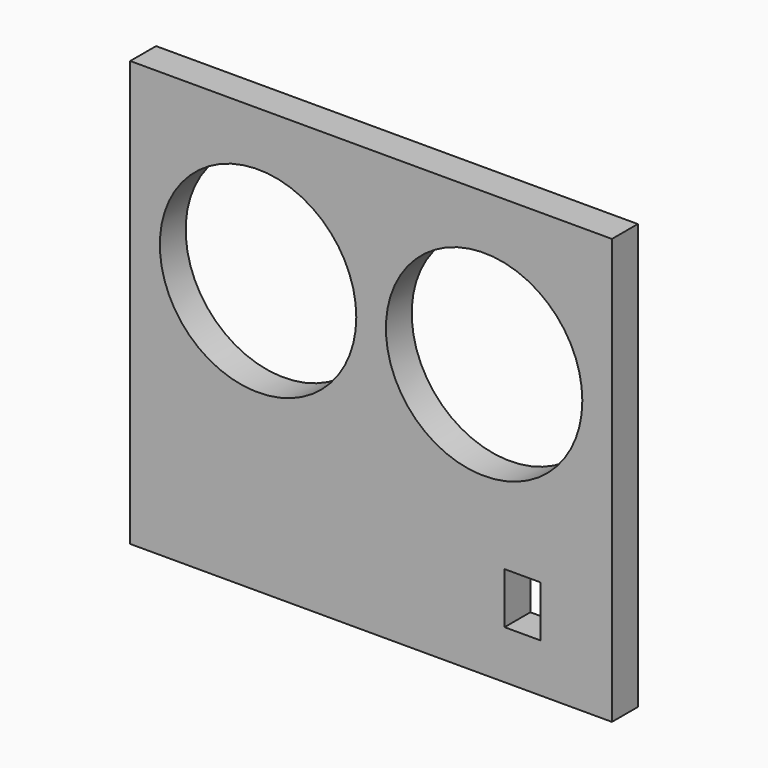
from build123d import *

# Parameters (mm, degrees)
F0_W     = 179
F0_H     = 158
F0_W_2   = 13.3
F0_H_2   = 19
F0_R     = 36.5
F1_DEPTH = 12


with BuildPart() as f1:
    # F0 (on Front) → F1 (new body)
    with BuildSketch(Plane.XZ):
        with Locations((51.255344, 57.734803)):
            Rectangle(F0_W, F0_H)
        with Locations((107.505466, 6.254699)):
            Rectangle(F0_W_2, F0_H_2, mode=Mode.SUBTRACT)
        with Locations((9.255344, 80.234803)):
            Circle(F0_R, mode=Mode.SUBTRACT)
        with Locations((93.255344, 80.234803)):
            Circle(F0_R, mode=Mode.SUBTRACT)
    extrude(amount=F1_DEPTH)


solid = f1.part
